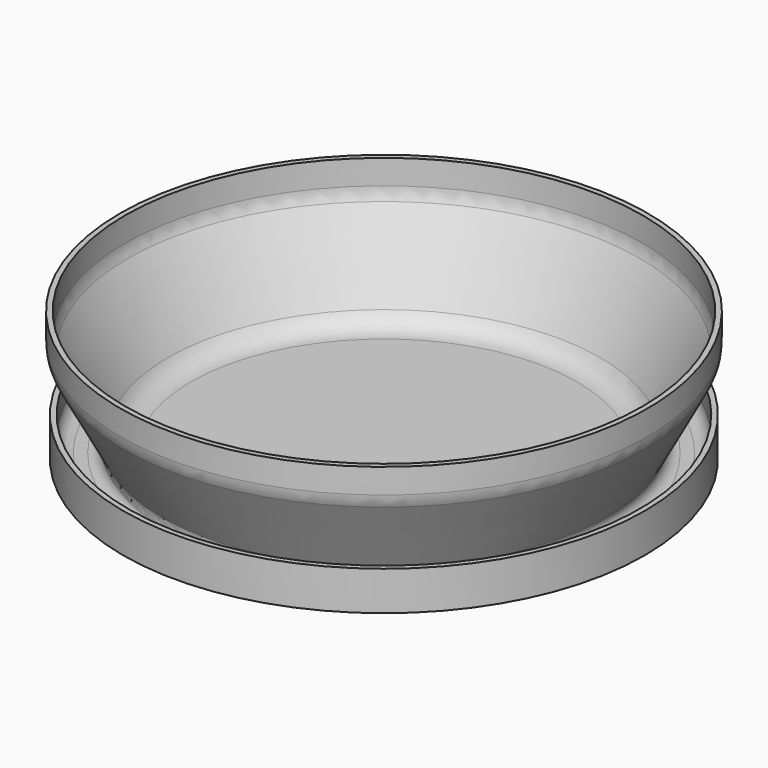
from build123d import *

# Parameters (mm, degrees)
F2_R = 10


with BuildPart() as f1:
    # F0 (on Front) → F1 (revolve)
    with BuildSketch(Plane.XZ):
        with BuildLine():
            Line((0, -2), (0, 0))
            Line((0, 0), (-73.991394, 0))
            ThreePointArc((-73.991394, 0), (-79.141775, 1.428327), (-82.82087, 5.305284))
            Line((-82.82087, 5.305284), (-99.180166, 36.072645))
            Line((-99.180166, 36.072645), (-99.180166, 48))
            Line((-99.180166, 48), (-101.180166, 48))
            Line((-101.180166, 48), (-101.180166, 36))
            Line((-101.180166, 36), (-85.163954, 5.877886))
            ThreePointArc((-85.163954, 5.877886), (-85.267075, 1.939848), (-88.695744, 0))
            Line((-88.695744, 0), (-93, 0))
            ThreePointArc((-93, 0), (-96.535534, 1.464466), (-98, 5))
            Line((-98, 5), (-98, 13))
            Line((-98, 13), (-100, 13))
            Line((-100, 13), (-100, -2))
            Line((-100, -2), (0, -2))
        make_face()
    revolve(axis=Axis((0, 0, -1), (0, 0, 1)))

    # F2
    f2_edges = [f1.edges().sort_by_distance(p)[0] for p in [
        (99.180166, 0, 36.072645),
        (101.180166, 0, 36),
    ]]
    fillet(f2_edges, radius=F2_R)


solid = f1.part
